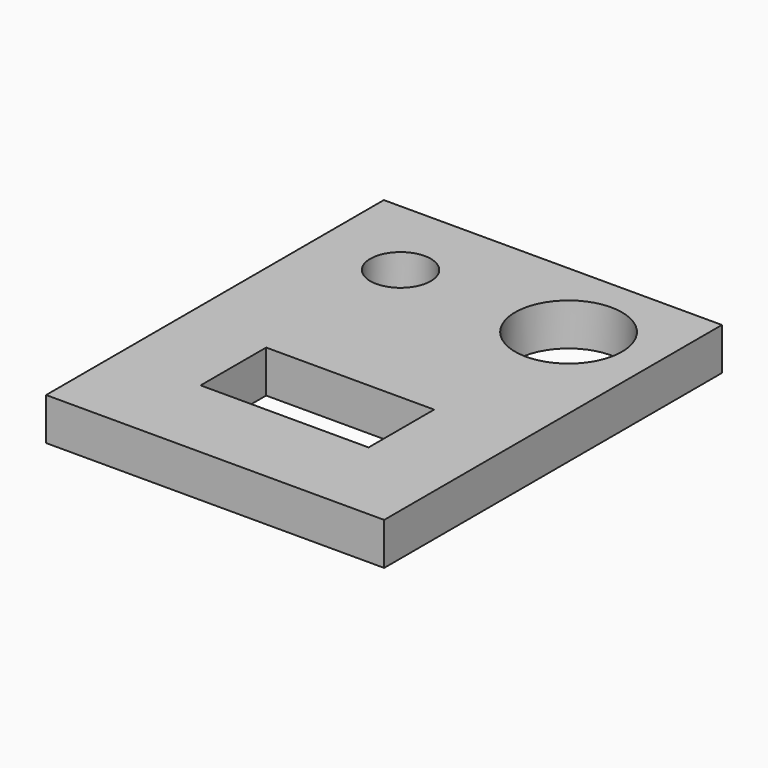
from build123d import *

# Parameters (mm, degrees)
SKETCH_W   = 39.969919
SKETCH_H   = 49.914069
SKETCH_R   = 3.576458
SKETCH_R_2 = 6.316536
SKETCH_W_2 = 19.862695
SKETCH_H_2 = 9.689122
PAD_DEPTH  = 5


with BuildPart() as part:
    # Sketch → Pad (new body)
    with BuildSketch(Plane.XY):
        with Locations((0.014, -5.215712)):
            Rectangle(SKETCH_W, SKETCH_H)
        with Locations((-10.037318, 9.794881)):
            Circle(SKETCH_R, mode=Mode.SUBTRACT)
        with Locations((9.825377, 9.794881)):
            Circle(SKETCH_R_2, mode=Mode.SUBTRACT)
        with Locations((-0.10597, -14.912382)):
            Rectangle(SKETCH_W_2, SKETCH_H_2, mode=Mode.SUBTRACT)
    extrude(amount=PAD_DEPTH)


solid = part.part
